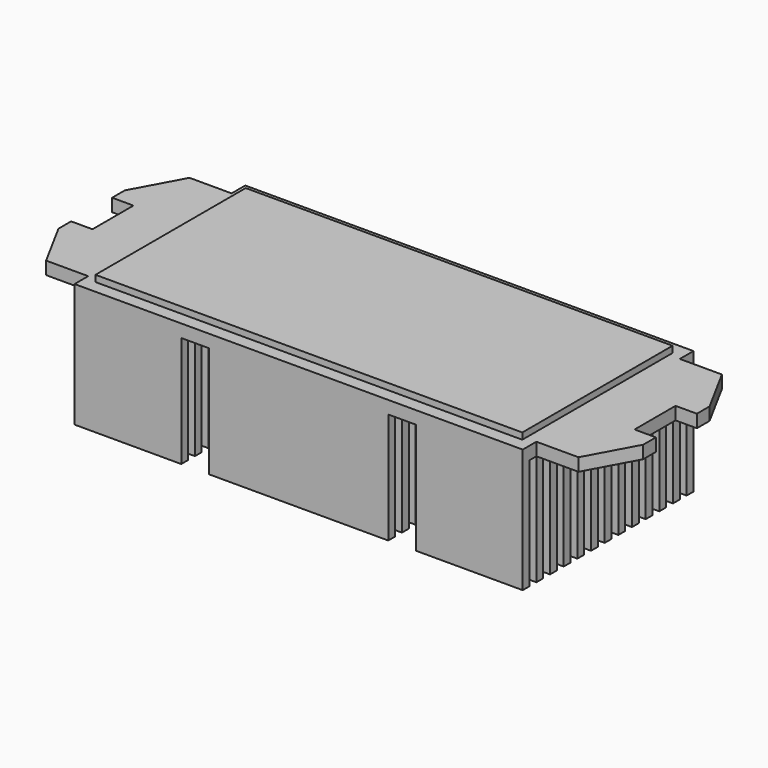
from build123d import *

# Parameters (mm, degrees)
F1_DEPTH = 3
F2_W     = 100
F2_H     = 44
F3_DEPTH = 1.5
F4_W     = 105
F4_H     = 2
F5_DEPTH = 26
F6_W     = 6.5
F6_H     = 71.201939
F6_H_2   = 68.703625
F7_DEPTH = 26


with BuildPart() as f1:
    # F0 (on Top) → F1 (new body)
    with BuildSketch(Plane.XY):
        Polygon((9.09921, 26.634615), (-43.40079, 26.634615), (-43.40079, 22.634615), (-53.269234, 22.634615), (-59.40079, 11.346154), (-59.40079, 7.634615), (-54.40079, 7.634615), (-54.40079, 1.634615), (-54.40079, -4.365385), (-59.40079, -4.365385), (-59.40079, -8.076923), (-53.269234, -19.365385), (-43.40079, -19.365385), (-43.40079, -23.365385), (61.59921, -23.365385), (61.59921, -19.365385), (71.467653, -19.365385), (77.59921, -8.076923), (77.59921, -4.365385), (72.59921, -4.365385), (72.59921, 7.634615), (77.59921, 7.634615), (77.59921, 11.346154), (71.467653, 22.634615), (61.59921, 22.634615), (61.59921, 26.634615), align=None)
    extrude(amount=F1_DEPTH)

    # F2 (on face) → F3 (join)
    with BuildSketch(Plane.XY.offset(3)):
        with Locations((9.09921, 1.634615)):
            Rectangle(F2_W, F2_H)
    extrude(amount=F3_DEPTH)

    # F4 (on face) → F5 (join)
    with BuildSketch(Plane(origin=(0, 0, 0), x_dir=(1, 0, 0), z_dir=(0, 0, -1))):
        with Locations((9.09921, 22.365385)):
            Rectangle(F4_W, F4_H)
        with Locations((9.09921, 18.365385)):
            Rectangle(F4_W, F4_H)
        with Locations((9.09921, 14.365385)):
            Rectangle(F4_W, F4_H)
        with Locations((9.09921, 10.365385)):
            Rectangle(F4_W, F4_H)
        with Locations((9.09921, 6.365385)):
            Rectangle(F4_W, F4_H)
        with Locations((9.09921, 2.365385)):
            Rectangle(F4_W, F4_H)
        with Locations((9.09921, -1.634615)):
            Rectangle(F4_W, F4_H)
        with Locations((9.09921, -5.634615)):
            Rectangle(F4_W, F4_H)
        with Locations((9.09921, -9.634615)):
            Rectangle(F4_W, F4_H)
        with Locations((9.09921, -13.634615)):
            Rectangle(F4_W, F4_H)
        with Locations((9.09921, -17.634615)):
            Rectangle(F4_W, F4_H)
        with Locations((9.09921, -21.634615)):
            Rectangle(F4_W, F4_H)
        with Locations((9.09921, -25.634615)):
            Rectangle(F4_W, F4_H)
    extrude(amount=F5_DEPTH)

    # F6 (on face) → F7 (cut)
    with BuildSketch(Plane(origin=(0, 0, -26), x_dir=(1, 0, 0), z_dir=(0, 0, -1))):
        with Locations((-15.15079, -5.566442)):
            Rectangle(F6_W, F6_H)
        with Locations((33.34921, -3.692707)):
            Rectangle(F6_W, F6_H_2)
    extrude(amount=-F7_DEPTH, mode=Mode.SUBTRACT)


solid = f1.part
